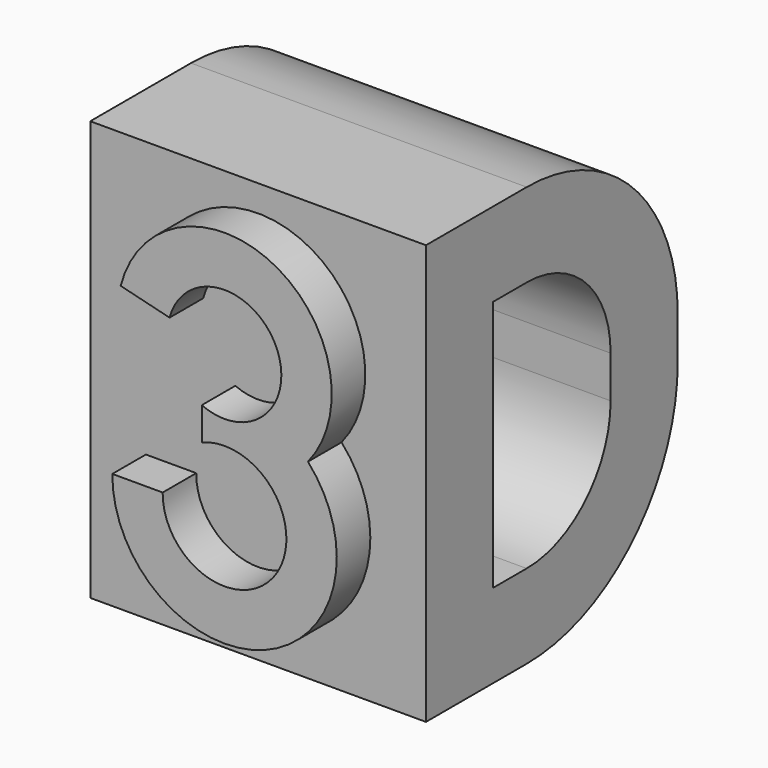
from build123d import *

# Parameters (mm, degrees)
F0_W     = 75
F0_H     = 100
F0_W_2   = 35
F0_H_2   = 60
F1_DEPTH = 40
F2_R     = 25
F3_R     = 45
F5_DEPTH = 10


with BuildPart() as f1:
    # F0 (on Right) → F1 (new body, symmetric)
    with BuildSketch(Plane.YZ):
        with Locations((37.5, 50)):
            Rectangle(F0_W, F0_H)
        with Locations((37.5, 50)):
            Rectangle(F0_W_2, F0_H_2, mode=Mode.SUBTRACT)
    extrude(amount=F1_DEPTH, both=True)

    # F2
    f2_edges = [f1.edges().sort_by_distance(p)[0] for p in [
        (0, 55, 80),
        (0, 55, 20),
    ]]
    fillet(f2_edges, radius=F2_R)

    # F3
    f3_edges = [f1.edges().sort_by_distance(p)[0] for p in [
        (0, 75, 100),
        (0, 75, 0),
    ]]
    fillet(f3_edges, radius=F3_R)

    # F4 (on face) → F5 (join)
    with BuildSketch(Plane.XZ):
        with BuildLine():
            ThreePointArc((-26.743521, 34.39074), (9.504213, 9.227778), (19.879071, 52.116415))
            ThreePointArc((19.879071, 52.116415), (11.445172, 90.989948), (-24.74618, 74.483336))
            Line((-24.74618, 74.483336), (-13.094317, 71.610317))
            ThreePointArc((-13.094317, 71.610317), (12.192518, 74.049378), (-5.425539, 55.746998))
            Line((-5.425539, 55.746998), (-5.425539, 47.93552))
            ThreePointArc((-5.425539, 47.93552), (12.14738, 25.869751), (-14.743108, 34.39074))
            Line((-14.743108, 34.39074), (-26.743521, 34.39074))
        make_face()
    extrude(amount=F5_DEPTH)


solid = f1.part
